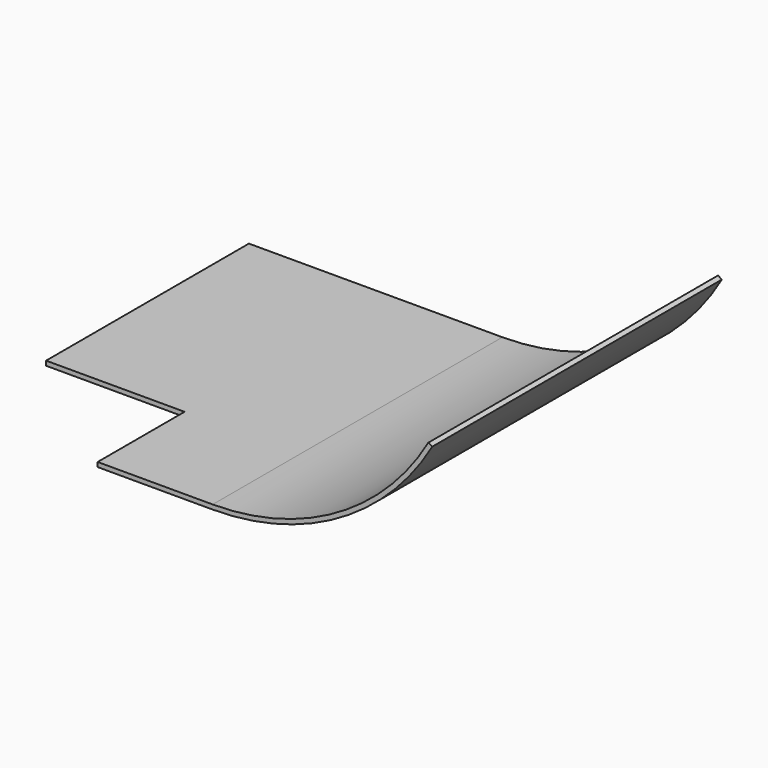
from build123d import *

# Parameters (mm, degrees)
F1_DEPTH = 177.8
F3_DEPTH = 76.2


with BuildPart() as f1:
    # F0 (on Front) → F1 (new body)
    with BuildSketch(Plane.XZ):
        with BuildLine():
            Line((-97.126943, -11.306872), (-97.126943, -14.481872))
            Line((-97.126943, -14.481872), (80.673057, -14.481872))
            ThreePointArc((80.673057, -14.481872), (169.573057, 9.338811), (234.652374, 74.418128))
            Line((234.652374, 74.418128), (231.902743, 76.005628))
            ThreePointArc((231.902743, 76.005628), (167.985557, 12.088441), (80.673057, -11.306872))
            Line((80.673057, -11.306872), (-97.126943, -11.306872))
        make_face()
    extrude(amount=F1_DEPTH)

    # F2 (on face) → F3 (join)
    with BuildSketch(Plane.XZ.offset(177.8)):
        with BuildLine():
            Line((80.673057, -11.306872), (0, -11.306872))
            Line((0, -11.306872), (0, -14.481872))
            Line((0, -14.481872), (25.070544, -14.481872))
            Line((25.070544, -14.481872), (80.673057, -14.481872))
            ThreePointArc((80.673057, -14.481872), (169.573057, 9.338811), (234.652374, 74.418128))
            Line((234.652374, 74.418128), (231.902743, 76.005628))
            ThreePointArc((231.902743, 76.005628), (167.985557, 12.088441), (80.673057, -11.306872))
        make_face()
    extrude(amount=F3_DEPTH)


solid = f1.part
